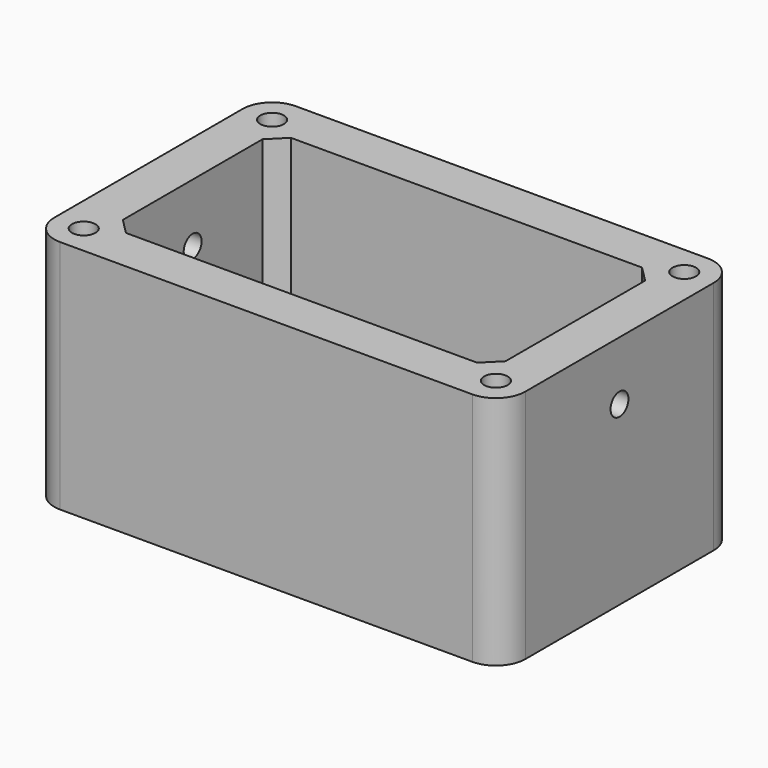
from build123d import *

# Parameters (mm, degrees)
PAD_DEPTH       = 40
POCKET_DEPTH    = 35
SKETCH002_R     = 1.25
SKETCH002_W     = 27
SKETCH002_H     = 4
POCKET001_DEPTH = 10
SKETCH003_R     = 2
HOLE_DEPTH      = 5
HOLE_TIPS_R     = 2
SKETCH004_R     = 5
POCKET002_DEPTH = 1
SKETCH009_R     = 1.9
POCKET005_DEPTH = 100


with BuildPart() as part:
    # Sketch → Pad (new body)
    with BuildSketch(Plane.XY):
        with BuildLine():
            ThreePointArc((-35, 25), (-38.535534, 23.535534), (-40, 20))
            Line((-40, -20), (-40, 20))
            ThreePointArc((-40, -20), (-38.535534, -23.535534), (-35, -25))
            Line((35, -25), (-35, -25))
            ThreePointArc((35, -25), (38.535534, -23.535534), (40, -20))
            Line((40, 20), (40, -20))
            ThreePointArc((40, 20), (38.535534, 23.535534), (35, 25))
            Line((-35, 25), (35, 25))
        make_face()
    extrude(amount=PAD_DEPTH)

    # Sketch001 (on Face10 of Pad) → Pocket (cut)
    with BuildSketch(Plane.XY.offset(40)):
        Polygon((-32.5, 14.82538), (-29.82538, 17.5), (29.82538, 17.5), (32.5, 14.82538), (32.5, -14.82538), (29.82538, -17.5), (-29.82538, -17.5), (-32.5, -14.82538), align=None)
    extrude(amount=-POCKET_DEPTH, mode=Mode.SUBTRACT)

    # Sketch002 (on Face4 of Pocket) → Pocket001 (cut)
    with BuildSketch(Plane(origin=(0, 0, 0), x_dir=(1, 0, 0), z_dir=(0, 0, -1))):
        with Locations((-12, 12)):
            Circle(SKETCH002_R)
        with Locations((12, 12)):
            Circle(SKETCH002_R)
        with Locations((-12, -12)):
            Circle(SKETCH002_R)
        with Locations((12, -12)):
            Circle(SKETCH002_R)
        Rectangle(SKETCH002_W, SKETCH002_H)
        with Locations((0, 5)):
            Rectangle(SKETCH002_W, SKETCH002_H)
        with Locations((0, -5)):
            Rectangle(SKETCH002_W, SKETCH002_H)
        Polygon((-13.5, 8), (-6.180741, 13.125), (6.180741, 13.125), (13.5, 8), align=None)
        Polygon((-13.5, -8), (13.5, -8), (6.180741, -13.125), (-6.180741, -13.125), align=None)
    extrude(amount=-POCKET001_DEPTH, mode=Mode.SUBTRACT)

    # Sketch003 (on Face5 of Pocket001) → Hole (cut)
    with BuildSketch(Plane.XY.offset(40)):
        with Locations((-35, 20)):
            Circle(SKETCH003_R)
        with Locations((35, 20)):
            Circle(SKETCH003_R)
        with Locations((35, -20)):
            Circle(SKETCH003_R)
        with Locations((-35, -20)):
            Circle(SKETCH003_R)
    extrude(amount=-HOLE_DEPTH, mode=Mode.SUBTRACT)

    # Hole tips → Hole tip 1 section 0
    with BuildSketch(Plane.XY.offset(35), mode=Mode.PRIVATE) as hole_tip_1_s0:
        with Locations((-35, 20)):
            Circle(HOLE_TIPS_R)
    loft([hole_tip_1_s0.sketch, Vertex(-35, 20, 33.798279)], mode=Mode.SUBTRACT)

    # Hole tips → Hole tip 2 section 0
    with BuildSketch(Plane.XY.offset(35), mode=Mode.PRIVATE) as hole_tip_2_s0:
        with Locations((35, 20)):
            Circle(HOLE_TIPS_R)
    loft([hole_tip_2_s0.sketch, Vertex(35, 20, 33.798279)], mode=Mode.SUBTRACT)

    # Hole tips → Hole tip 3 section 0
    with BuildSketch(Plane.XY.offset(35), mode=Mode.PRIVATE) as hole_tip_3_s0:
        with Locations((35, -20)):
            Circle(HOLE_TIPS_R)
    loft([hole_tip_3_s0.sketch, Vertex(35, -20, 33.798279)], mode=Mode.SUBTRACT)

    # Hole tips → Hole tip 4 section 0
    with BuildSketch(Plane.XY.offset(35), mode=Mode.PRIVATE) as hole_tip_4_s0:
        with Locations((-35, -20)):
            Circle(HOLE_TIPS_R)
    loft([hole_tip_4_s0.sketch, Vertex(-35, -20, 33.798279)], mode=Mode.SUBTRACT)

    # Sketch004 (on Face4 of Hole) → Pocket002 (cut)
    with BuildSketch(Plane(origin=(0, 0, 0), x_dir=(1, 0, 0), z_dir=(0, 0, -1))):
        with Locations((-30, 15)):
            Circle(SKETCH004_R)
        with Locations((-30, -15)):
            Circle(SKETCH004_R)
        with Locations((30, 15)):
            Circle(SKETCH004_R)
        with Locations((30, -15)):
            Circle(SKETCH004_R)
    extrude(amount=-POCKET002_DEPTH, mode=Mode.SUBTRACT)

    # Sketch009 (on Face9 of Hole) → Pocket005 (cut)
    with BuildSketch(Plane(origin=(-40, 0, 0), x_dir=(0, -1, 0), z_dir=(-1, 0, 0))):
        with Locations((0, 30)):
            Circle(SKETCH009_R)
    extrude(amount=-POCKET005_DEPTH, mode=Mode.SUBTRACT)


solid = part.part
